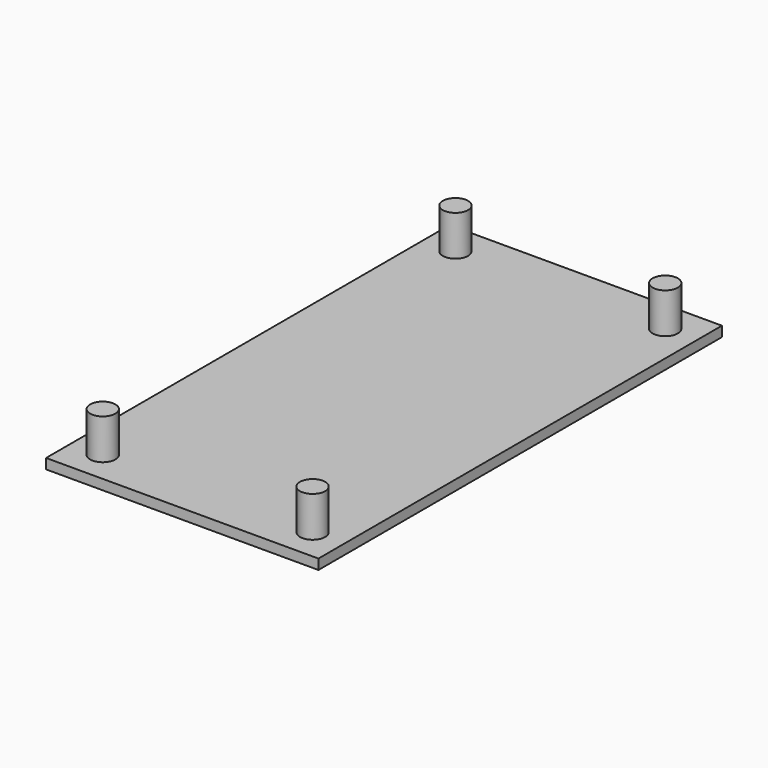
from build123d import *

# Parameters (mm, degrees)
F0_R     = 1.25
F1_DEPTH = 5
F0_W     = 27
F0_H     = 50
F2_DEPTH = 1


with BuildPart() as f1:
    # F0 (on Top) → F1 (new body)
    with BuildSketch(Plane.XY):
        with Locations((-10.4, 21.85)):
            Circle(F0_R)
    extrude(amount=F1_DEPTH)



with BuildPart() as f1b:
    # F0 (on Top) → F1, piece 2 (new body)
    with BuildSketch(Plane.XY):
        with Locations((-10.4, -21.85)):
            Circle(F0_R)
    extrude(amount=F1_DEPTH)


with BuildPart() as f1c:
    # F0 (on Top) → F1, piece 3 (new body)
    with BuildSketch(Plane.XY):
        with Locations((10.4, -21.85)):
            Circle(F0_R)
    extrude(amount=F1_DEPTH)


with BuildPart() as f1d:
    # F0 (on Top) → F1, piece 4 (new body)
    with BuildSketch(Plane.XY):
        with Locations((10.4, 21.85)):
            Circle(F0_R)
    extrude(amount=F1_DEPTH)


with BuildPart() as f1_1:
    add(f1.part)

    add(f1b.part)  # F2 merges F1b

    add(f1c.part)  # F2 merges F1c

    add(f1d.part)  # F2 merges F1d
    # F0 (on Top) → F2 (join)
    with BuildSketch(Plane.XY):
        Rectangle(F0_W, F0_H)
        with Locations((-10.4, -21.85)):
            Circle(F0_R, mode=Mode.SUBTRACT)
        with Locations((10.4, -21.85)):
            Circle(F0_R, mode=Mode.SUBTRACT)
        with Locations((-10.4, 21.85)):
            Circle(F0_R, mode=Mode.SUBTRACT)
        with Locations((10.4, 21.85)):
            Circle(F0_R, mode=Mode.SUBTRACT)
    extrude(amount=F2_DEPTH)


solid = f1_1.part
